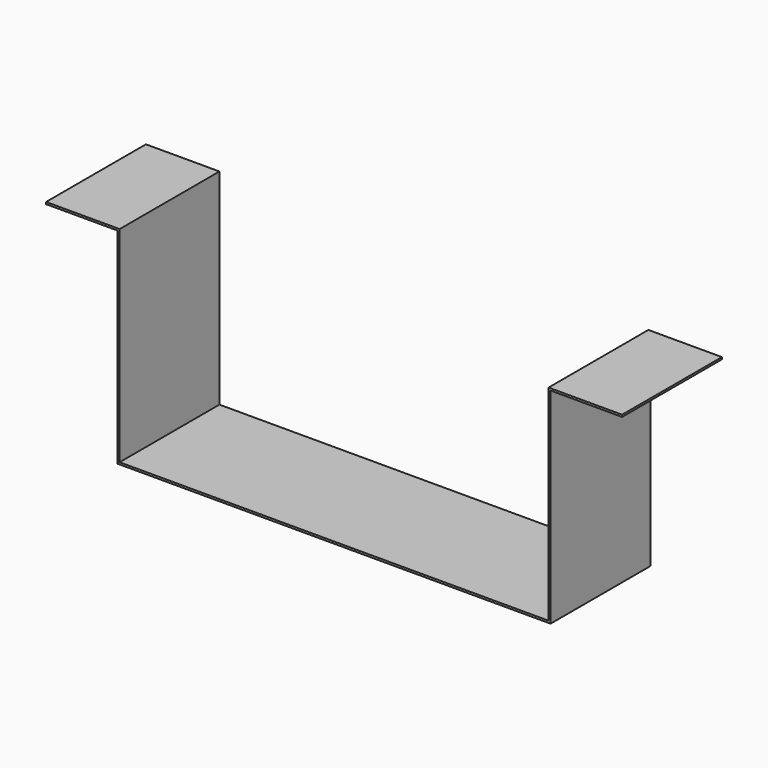
from build123d import *

# Parameters (mm, degrees)
F1_DEPTH = 126.492


with BuildPart() as f1:
    # F0 (on Front) → F1 (new body)
    with BuildSketch(Plane.XZ):
        Polygon((0, 197.4088), (0, 0), (2.032, 0), (436.88, 0), (438.912, 0), (438.912, 2.032), (438.912, 178.803325), (438.912, 196.977097), (438.912, 208.0768), (487.043064, 208.0768), (511.429, 208.0768), (511.429, 210.1088), (487.043064, 210.1088), (438.794217, 210.1088), (436.88, 210.1088), (436.88, 2.032), (2.032, 2.032), (2.032, 210.1088), (-72.517, 210.1088), (-72.517, 208.0768), (-48.133, 208.0768), (0, 208.0768), align=None)
    extrude(amount=F1_DEPTH)


solid = f1.part
